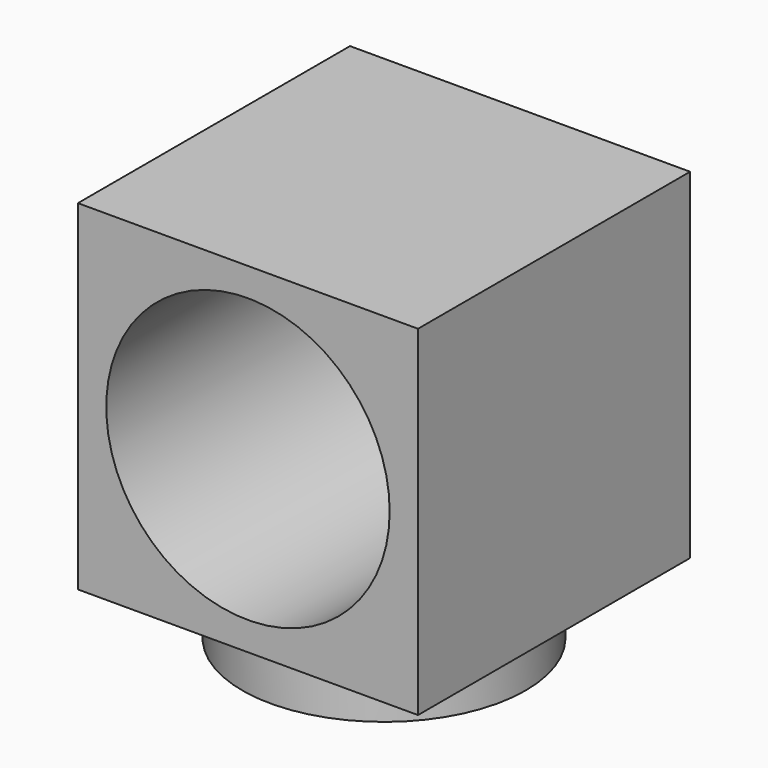
from build123d import *

# Parameters (mm, degrees)
F0_W     = 7.62
F0_H     = 7.62
F0_R     = 3.175
F1_DEPTH = 7.62
F2_R     = 3.175
F3_DEPTH = 1.27


with BuildPart() as f1:
    # F0 (on Front) → F1 (new body)
    with BuildSketch(Plane.XZ):
        Rectangle(F0_W, F0_H)
        Circle(F0_R, mode=Mode.SUBTRACT)
    extrude(amount=F1_DEPTH)

    # F2 (on face) → F3 (join)
    with BuildSketch(Plane(origin=(0, 0, -3.81), x_dir=(1, 0, 0), z_dir=(0, 0, -1))):
        with Locations((0, 3.81)):
            Circle(F2_R)
    extrude(amount=F3_DEPTH)


solid = f1.part
